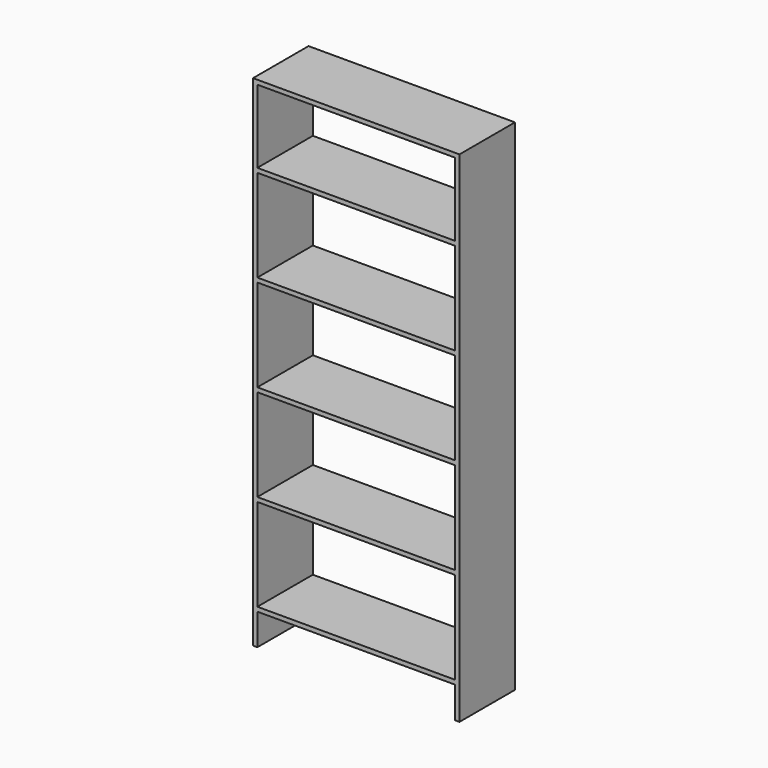
from build123d import *

# Parameters (mm, degrees)
F0_W     = 723.900001
F0_H     = 268.047814
F1_DEPTH = 254


with BuildPart() as f1:
    # F0 (on Front) → F1 (new body)
    with BuildSketch(Plane.XZ):
        Polygon((547.892188, -873.4783), (563.767188, -873.4783), (563.767187, 955.3217), (547.892188, 955.3217), (-176.007813, 955.3217), (-191.882813, 955.3217), (-191.882812, -873.4783), (-176.007813, -873.4783), (-176.007813, -758.748114), (547.892188, -758.748114), align=None)
        Polygon((547.892188, -742.873114), (-176.007812, -742.873114), (-176.007813, -405.180114), (547.892187, -405.180114), align=None, mode=Mode.SUBTRACT)
        Polygon((547.892187, -389.305114), (-176.007812, -389.305114), (-176.007813, -51.612114), (547.892187, -51.612114), align=None, mode=Mode.SUBTRACT)
        Polygon((547.892187, -35.737114), (-176.007812, -35.737114), (-176.007813, 301.955886), (547.892187, 301.955886), align=None, mode=Mode.SUBTRACT)
        Polygon((547.892187, 317.830886), (-176.007812, 317.830886), (-176.007813, 655.523886), (547.892187, 655.523886), align=None, mode=Mode.SUBTRACT)
        with Locations((185.942187, 805.422793)):
            Rectangle(F0_W, F0_H, mode=Mode.SUBTRACT)
    extrude(amount=F1_DEPTH)


solid = f1.part
